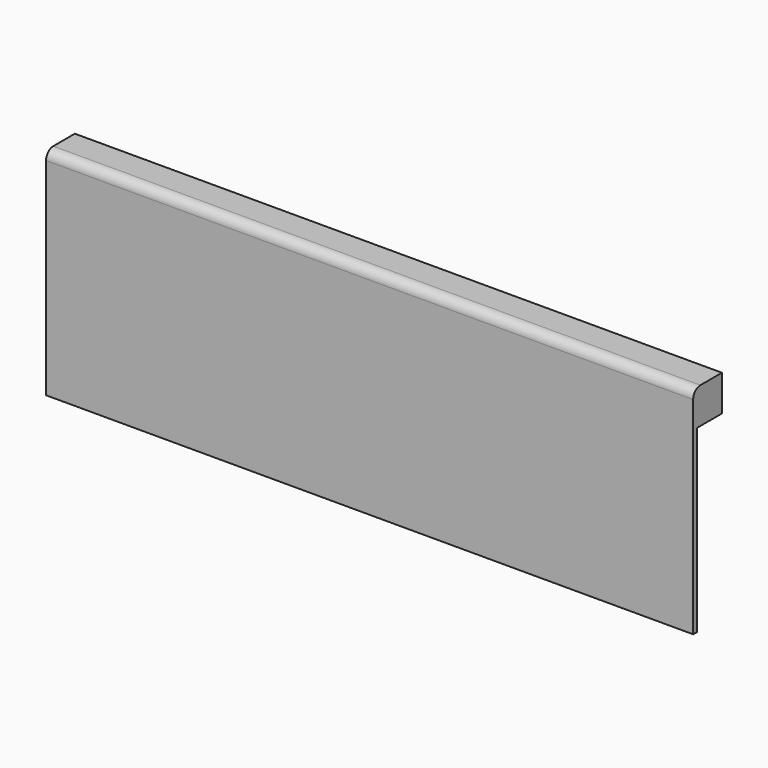
from build123d import *

# Parameters (mm, degrees)
F0_W     = 1828.8
F0_H     = 609.6
F1_DEPTH = 101.6
F2_W     = 1828.8
F2_H     = 508
F3_DEPTH = 88.9
F4_R     = 25.4


with BuildPart() as f1:
    # F0 (on Front) → F1 (new body)
    with BuildSketch(Plane.XZ):
        with Locations((0, -304.8)):
            Rectangle(F0_W, F0_H)
    extrude(amount=F1_DEPTH)

    # F2 (on face) → F3 (cut)
    with BuildSketch(Plane(origin=(0, 0, 0), x_dir=(-1, 0, 0), z_dir=(0, 1, 0))):
        with Locations((0, -355.6)):
            Rectangle(F2_W, F2_H)
    extrude(amount=-F3_DEPTH, mode=Mode.SUBTRACT)

    # F4
    f4_edges = [f1.edges().sort_by_distance(p)[0] for p in [
        (0, -101.6, 0),
    ]]
    fillet(f4_edges, radius=F4_R)


solid = f1.part
